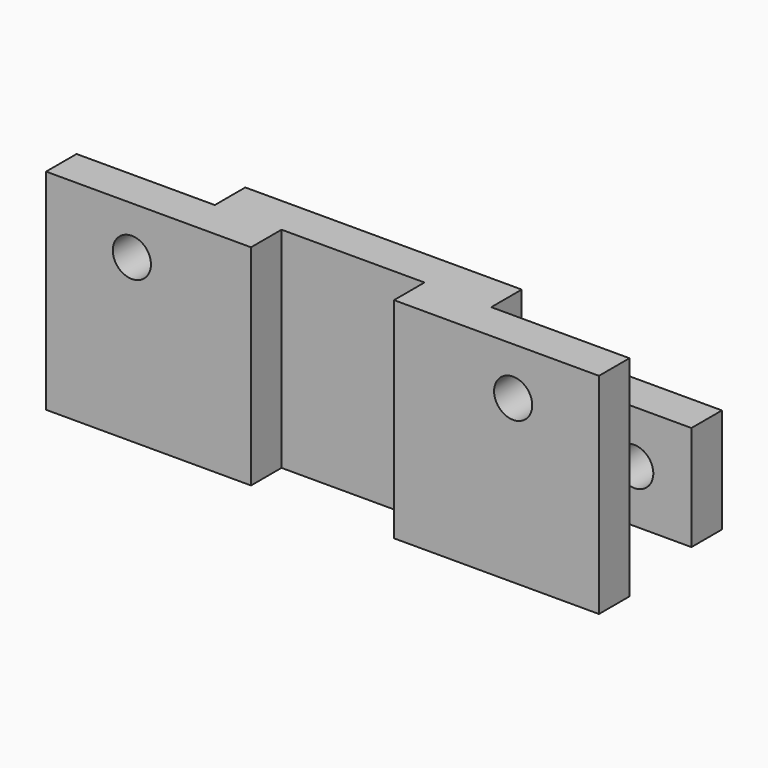
from build123d import *

# Parameters (mm, degrees)
F0_W      = 58
F0_H      = 10
F0_R      = 2
F1_DEPTH  = 4
F2_W      = 29
F2_H      = 10
F3_DEPTH  = 4
F4_W      = 15
F4_H      = 10
F5_DEPTH  = 4
F6_DEPTH  = 12
F7_W      = 29
F7_H      = 11
F8_DEPTH  = 6
F9_W      = 29
F9_H      = 11
F9_W_2    = 13
F10_DEPTH = 4
F11_R     = 2
F12_DEPTH = 4


with BuildPart() as f1:
    # F0 (on Front) → F1 (new body)
    with BuildSketch(Plane.XZ):
        Rectangle(F0_W, F0_H)
        with Locations((-20, 0)):
            Circle(F0_R, mode=Mode.SUBTRACT)
        with BuildLine():
            ThreePointArc((22, 0), (20, -2), (18, 0))
            ThreePointArc((18, 0), (20, 2), (22, 0))
        make_face(mode=Mode.SUBTRACT)
    extrude(amount=F1_DEPTH)

    # F2 (on face) → F3 (join)
    with BuildSketch(Plane(origin=(0, 0, 0), x_dir=(-1, 0, 0), z_dir=(0, 1, 0))):
        Rectangle(F2_W, F2_H)
    extrude(amount=F3_DEPTH)

    # F4 (on face) → F5 (cut)
    with BuildSketch(Plane.XZ.offset(4)):
        Rectangle(F4_W, F4_H)
    extrude(amount=-F5_DEPTH, mode=Mode.SUBTRACT)

    # F6 (add): a face of the model
    f6_faces = [f1.faces().sort_by_distance(p)[0] for p in [
        (-21.75, -0.5854912467, -5),
    ]]
    extrude(f6_faces, amount=F6_DEPTH)

    # F7 (on face) → F8 (join)
    with BuildSketch(Plane(origin=(0, 4, 0), x_dir=(-1, 0, 0), z_dir=(0, 1, 0))):
        with Locations((0, -11.5)):
            Rectangle(F7_W, F7_H)
    extrude(amount=F8_DEPTH)

    # F9 (on face) → F10 (join)
    with BuildSketch(Plane(origin=(0, 10, 0), x_dir=(-1, 0, 0), z_dir=(0, 1, 0))):
        with Locations((0, -11.5)):
            Rectangle(F9_W, F9_H)
        with Locations((-21, -11.5)):
            Rectangle(F9_W_2, F9_H)
        with Locations((21, -11.5)):
            Rectangle(F9_W_2, F9_H)
    extrude(amount=F10_DEPTH)

    # F11 (on face) → F12 (cut)
    with BuildSketch(Plane(origin=(0, 14, 0), x_dir=(-1, 0, 0), z_dir=(0, 1, 0))):
        with Locations((-21.5, -11.5)):
            Circle(F11_R)
        with BuildLine():
            ThreePointArc((23.5, -11.5), (21.5, -9.5), (19.5, -11.5))
            ThreePointArc((19.5, -11.5), (21.5, -13.5), (23.5, -11.5))
        make_face()
    extrude(amount=-F12_DEPTH, mode=Mode.SUBTRACT)


solid = f1.part
